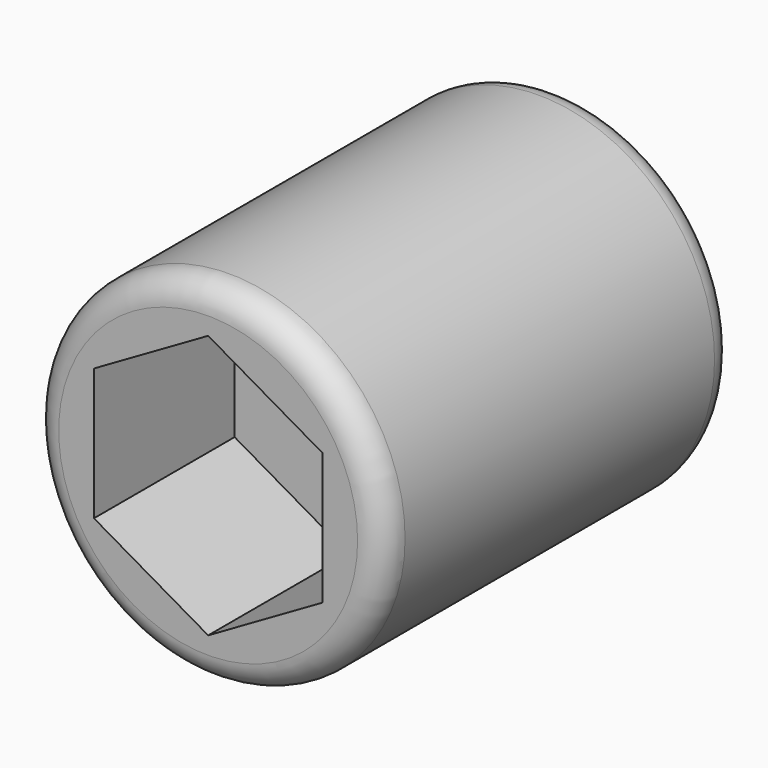
from build123d import *

# Parameters (mm, degrees)
F0_R     = 2
F1_DEPTH = 5
F3_DEPTH = 2
F4_R     = 0.3


with BuildPart() as f1:
    # F0 (on Front) → F1 (new body)
    with BuildSketch(Plane.XZ):
        Circle(F0_R)
    extrude(amount=-F1_DEPTH)

    # F2 (on face) → F3 (cut)
    with BuildSketch(Plane.XZ):
        Polygon((1.299038, 0.75), (0, 1.5), (-1.299038, 0.75), (-1.299038, -0.75), (0, -1.5), (1.299038, -0.75), align=None)
    extrude(amount=-F3_DEPTH, mode=Mode.SUBTRACT)

    # F4
    f4_edges = [f1.edges().sort_by_distance(p)[0] for p in [
        (-2, 0, 0),
        (-2, 5, 0),
    ]]
    fillet(f4_edges, radius=F4_R)


solid = f1.part
